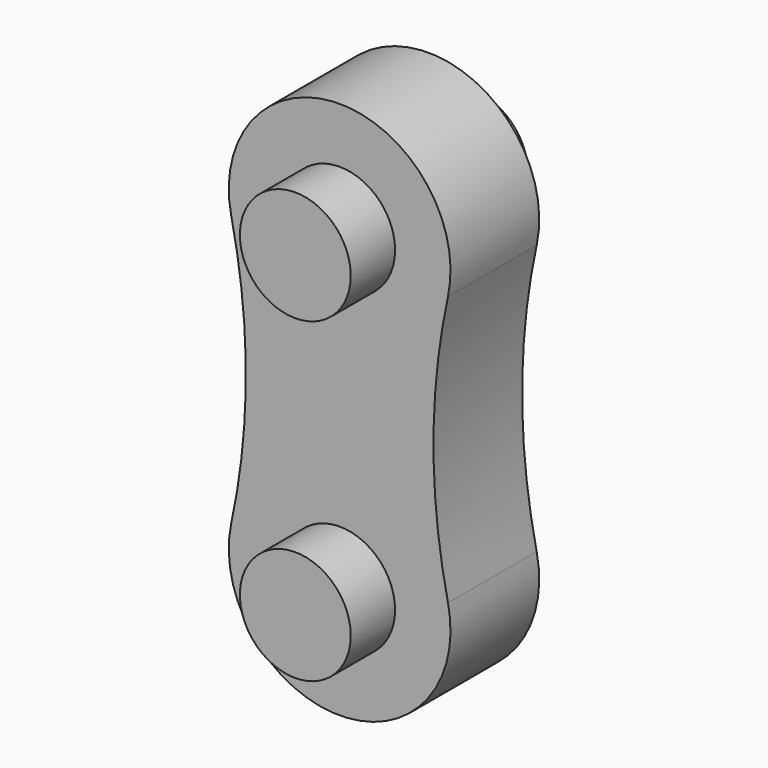
from build123d import *

# Parameters (mm, degrees)
F1_DEPTH = 7
F2_R     = 3.5
F3_DEPTH = 3.5
F4_R     = 3.5
F5_DEPTH = 3.5


with BuildPart() as f1:
    # F0 (on Front) → F1 (new body)
    with BuildSketch(Plane.XZ):
        with BuildLine():
            ThreePointArc((6.839722, -18.510638), (5.92385, -10), (6.839722, -1.489362))
            ThreePointArc((6.839722, -1.489362), (0, 7), (-6.839722, -1.489362))
            ThreePointArc((-6.839722, -1.489362), (-5.92385, -10), (-6.839722, -18.510638))
            ThreePointArc((-6.839722, -18.510638), (0, -27), (6.839722, -18.510638))
        make_face()
    extrude(amount=F1_DEPTH)

    # F2 (on face) → F3 (join)
    with BuildSketch(Plane(origin=(0, 0, 0), x_dir=(-1, 0, 0), z_dir=(0, 1, 0))):
        Circle(F2_R)
        with Locations((0, -20)):
            Circle(F2_R)
    extrude(amount=F3_DEPTH)

    # F4 (on face) → F5 (join)
    with BuildSketch(Plane.XZ.offset(7)):
        Circle(F4_R)
        with Locations((0, -20)):
            Circle(F4_R)
    extrude(amount=F5_DEPTH)


solid = f1.part
